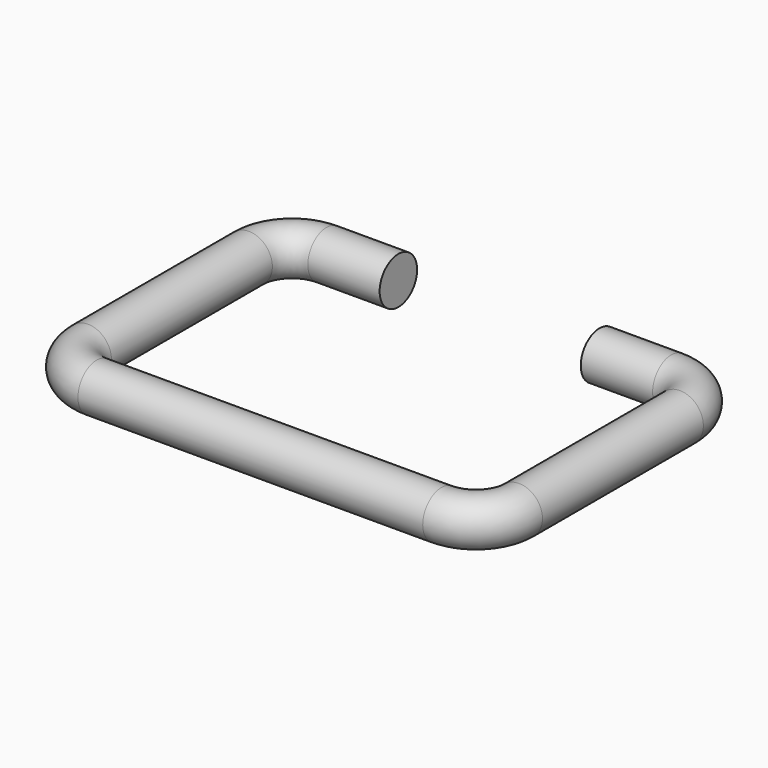
from build123d import *

# Parameters (mm, degrees)
F3_R = 0.815


with BuildPart() as f4:
    # F4: sweep along a path in F1
    with BuildLine(Plane.XY) as f4_path:
        Line((3.5, 5), (6, 5))
        ThreePointArc((6, 5), (7.0606601718, 4.5606601718), (7.5, 3.5))
        Line((7.5, 3.5), (7.5, -3.5))
        ThreePointArc((7.5, -3.5), (7.0606601718, -4.5606601718), (6, -5))
        Line((6, -5), (0, -5))
        Line((0, -5), (-6, -5))
        ThreePointArc((-6, -5), (-7.0606601718, -4.5606601718), (-7.5, -3.5))
        Line((-7.5, -3.5), (-7.5, 3.5))
        ThreePointArc((-7.5, 3.5), (-7.0606601718, 4.5606601718), (-6, 5))
        Line((-6, 5), (-3.5, 5))
    # F3 (on offset) → F4 (sweep)
    with BuildSketch(Plane.YZ.offset(3.5)):
        with Locations((5, 0)):
            Circle(F3_R)
    sweep(path=f4_path.line)


solid = f4.part
